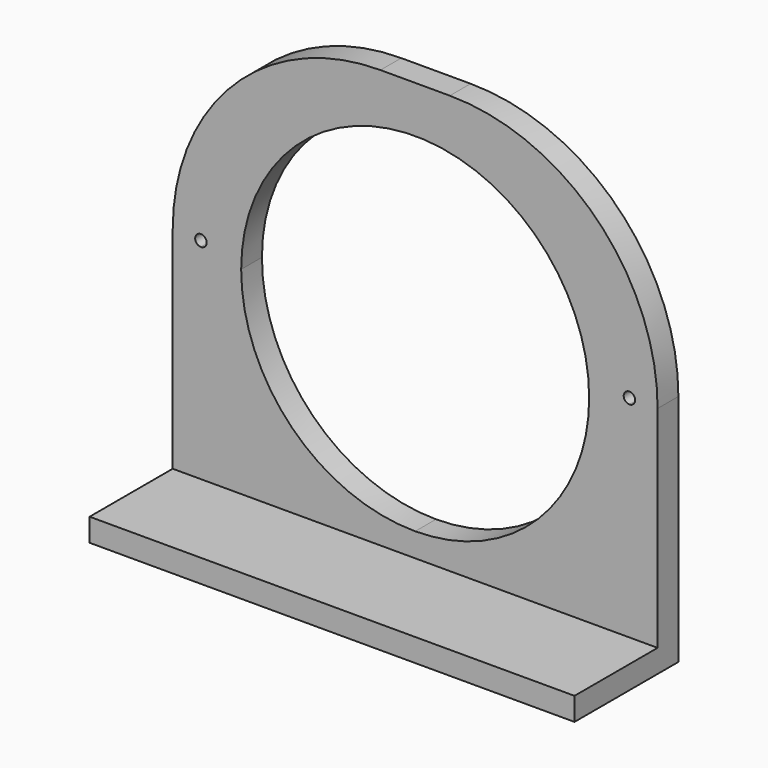
from build123d import *

# Parameters (mm, degrees)
F1_DEPTH = 6.35
F2_R     = 50.8
F3_W     = 118.5620874166
F3_H     = 5.6165596008
F4_DEPTH = 25.4


with BuildPart() as f1:
    # F0 (on Front) → F1 (new body)
    with BuildSketch(Plane.XZ):
        Polygon((-59.2810437083, -53.975), (0, -53.975), (59.2810437083, -53.975), (59.2810437083, 53.975), (-59.2810437083, 53.975), align=None)
        with BuildLine():
            ThreePointArc((-50.9875, 3.0062948354), (-51.3975505063, 2.0163453417), (-52.3875, 1.6062948354))
            ThreePointArc((-52.3875, 1.6062948354), (-53.3774494937, 3.996244329), (-50.9875, 3.0062948354))
        make_face(mode=Mode.SUBTRACT)
        with BuildLine():
            ThreePointArc((-42.545, 0), (0, 42.545), (42.545, 0))
            ThreePointArc((42.545, 0), (30.0838580056, -30.0838580056), (0, -42.545))
            ThreePointArc((0, -42.545), (-30.0838580056, -30.0838580056), (-42.545, 0))
        make_face(mode=Mode.SUBTRACT)
        with BuildLine():
            ThreePointArc((53.7845, 3.1811562367), (53.3753281733, 2.1933280634), (52.3875, 1.7841562367))
            ThreePointArc((52.3875, 1.7841562367), (51.3996718267, 4.16898441), (53.7845, 3.1811562367))
        make_face(mode=Mode.SUBTRACT)
    extrude(amount=F1_DEPTH)

    # F2
    f2_edges = [f1.edges().sort_by_distance(p)[0] for p in [
        (59.281044, -3.175, 53.975),
        (-59.281044, -3.175, 53.975),
    ]]
    fillet(f2_edges, radius=F2_R)

    # F3 (on face) → F4 (join)
    with BuildSketch(Plane.XZ.offset(6.35)):
        with Locations((0, -51.1667201996)):
            Rectangle(F3_W, F3_H)
    extrude(amount=F4_DEPTH)


solid = f1.part
